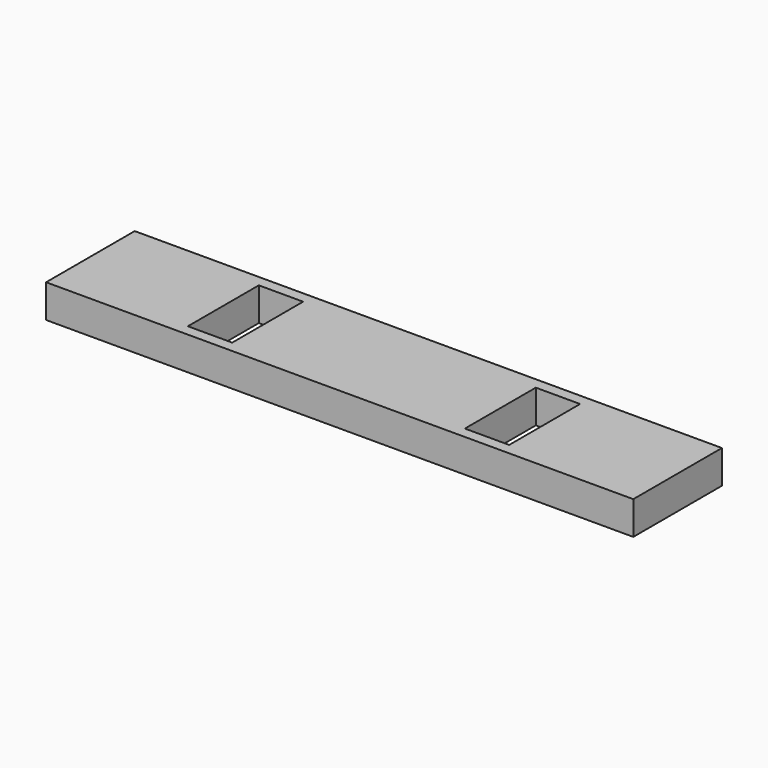
from build123d import *

# Parameters (mm, degrees)
F0_W     = 265
F0_H     = 50
F1_DEPTH = 15
F2_W     = 20
F2_H     = 40
F3_DEPTH = 39.9
F4_DEPTH = 35.1


with BuildPart() as f1:
    # F0 (on Top) → F1 (new body)
    with BuildSketch(Plane.XY):
        with Locations((0, 1.633065)):
            Rectangle(F0_W, F0_H)
    extrude(amount=F1_DEPTH)

    # F2 (on face) → F3 (cut)
    with BuildSketch(Plane.XY.offset(15)):
        with Locations((-62.5, 1.633065)):
            Rectangle(F2_W, F2_H)
        with Locations((62.5, 1.633065)):
            Rectangle(F2_W, F2_H)
    extrude(amount=-F3_DEPTH, mode=Mode.SUBTRACT)

    # F2 (on face) → F4 (cut)
    with BuildSketch(Plane.XY.offset(15)):
        with Locations((-62.5, 1.633065)):
            Rectangle(F2_W, F2_H)
        with Locations((62.5, 1.633065)):
            Rectangle(F2_W, F2_H)
    extrude(amount=-F4_DEPTH, mode=Mode.SUBTRACT)


solid = f1.part
